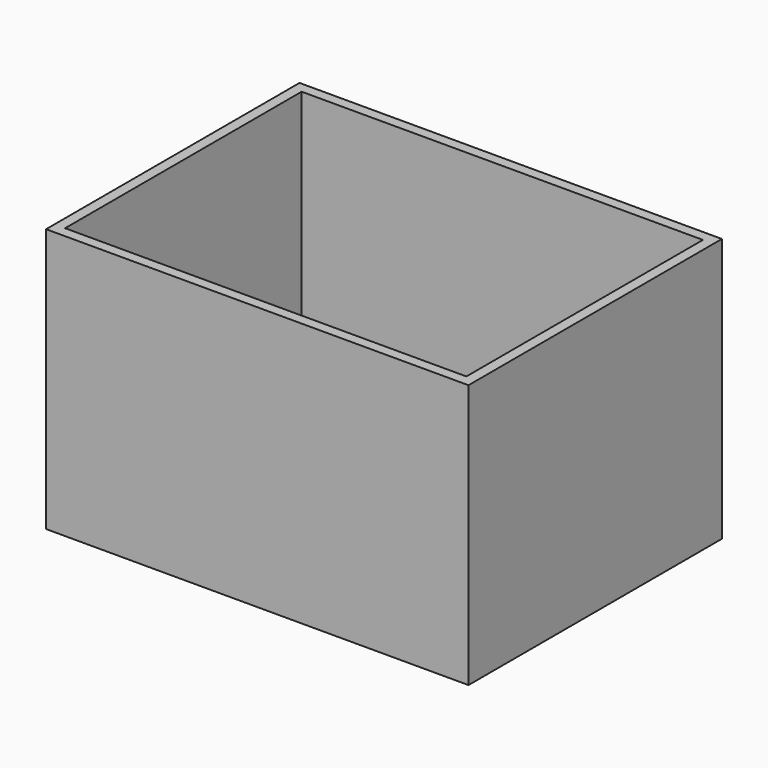
from build123d import *

# Parameters (mm, degrees)
SKETCH_W     = 40
SKETCH_H     = 30
PAD_DEPTH    = 25
SKETCH001_W  = 38
SKETCH001_H  = 28
POCKET_DEPTH = 23


with BuildPart() as part:
    # Sketch → Pad (new body)
    with BuildSketch(Plane.XY):
        Rectangle(SKETCH_W, SKETCH_H)
    extrude(amount=PAD_DEPTH)

    # Sketch001 (on Face6 of Pad) → Pocket (cut)
    with BuildSketch(Plane.XY.offset(25)):
        Rectangle(SKETCH001_W, SKETCH001_H)
    extrude(amount=-POCKET_DEPTH, mode=Mode.SUBTRACT)


solid = part.part
